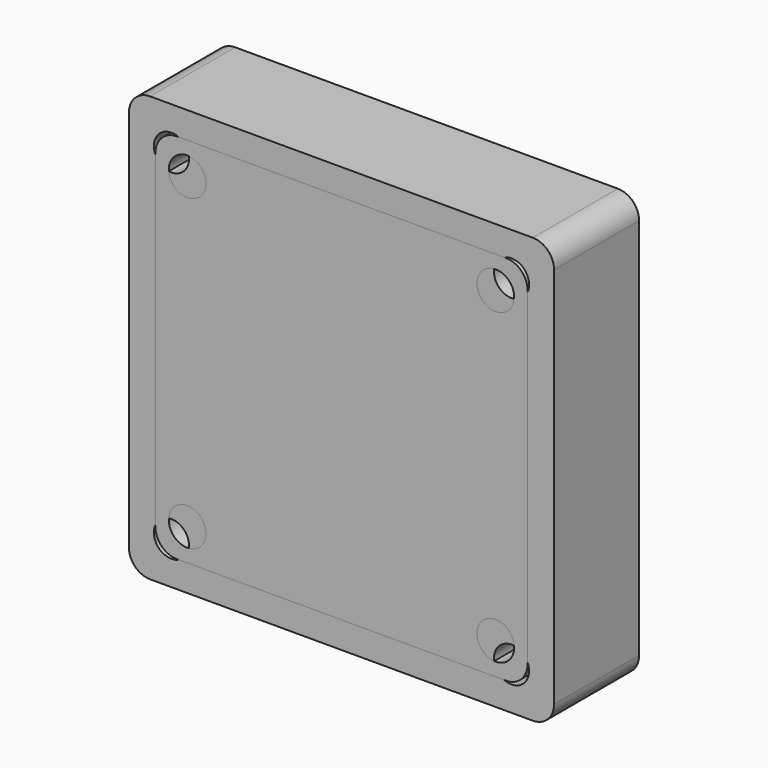
from build123d import *

# Parameters (mm, degrees)
F0_W      = 30
F0_H      = 30
F1_DEPTH  = 10
F2_R      = 2
F3_R      = 1.65
F4_DEPTH  = 25
F5_W      = 40
F5_H      = 40
F6_DEPTH  = 10
F7_R      = 2
F8_R      = 1.65
F9_DEPTH  = 25
F10_W     = 35
F10_H     = 35
F11_DEPTH = 10
F12_R     = 2
F13_R     = 1.75
F14_DEPTH = 25


with BuildPart() as f1:
    # F0 (on Front) → F1 (new body)
    with BuildSketch(Plane.XZ):
        Rectangle(F0_W, F0_H)
    extrude(amount=F1_DEPTH)

    # F2
    f2_edges = [f1.edges().sort_by_distance(p)[0] for p in [
        (-15, -5, 15),
        (-15, -5, -15),
        (15, -5, -15),
        (15, -5, 15),
    ]]
    fillet(f2_edges, radius=F2_R)

    # F3 (on face) → F4 (cut)
    with BuildSketch(Plane.XZ.offset(10)):
        with Locations((-12, 12)):
            Circle(F3_R)
        with Locations((12, 12)):
            Circle(F3_R)
        with Locations((12, -12)):
            Circle(F3_R)
        with Locations((-12, -12)):
            Circle(F3_R)
    extrude(amount=-F4_DEPTH, mode=Mode.SUBTRACT)


with BuildPart() as f6:
    # F5 (on Front) → F6 (new body)
    with BuildSketch(Plane.XZ):
        Rectangle(F5_W, F5_H)
    extrude(amount=F6_DEPTH)

    # F7
    f7_edges = [f6.edges().sort_by_distance(p)[0] for p in [
        (-20, -5, 20),
        (-20, -5, -20),
        (20, -5, 20),
        (20, -5, -20),
    ]]
    fillet(f7_edges, radius=F7_R)

    # F8 (on face) → F9 (cut)
    with BuildSketch(Plane.XZ.offset(10)):
        with Locations((-16, 16)):
            Circle(F8_R)
        with Locations((16, 16)):
            Circle(F8_R)
        with Locations((-16, -16)):
            Circle(F8_R)
        with Locations((16, -16)):
            Circle(F8_R)
    extrude(amount=-F9_DEPTH, mode=Mode.SUBTRACT)


with BuildPart() as f11:
    # F10 (on Front) → F11 (new body)
    with BuildSketch(Plane.XZ):
        Rectangle(F10_W, F10_H)
    extrude(amount=F11_DEPTH)

    # F12
    f12_edges = [f11.edges().sort_by_distance(p)[0] for p in [
        (-17.5, -5, 17.5),
        (-17.5, -5, -17.5),
        (17.5, -5, 17.5),
        (17.5, -5, -17.5),
    ]]
    fillet(f12_edges, radius=F12_R)

    # F13 (on face) → F14 (cut)
    with BuildSketch(Plane.XZ.offset(10)):
        with Locations((-14.5, 14.5)):
            Circle(F13_R)
        with Locations((14.5, 14.5)):
            Circle(F13_R)
        with Locations((14.5, -14.5)):
            Circle(F13_R)
        with Locations((-14.5, -14.5)):
            Circle(F13_R)
    extrude(amount=-F14_DEPTH, mode=Mode.SUBTRACT)


solid = Compound([f1.part, f6.part, f11.part])
